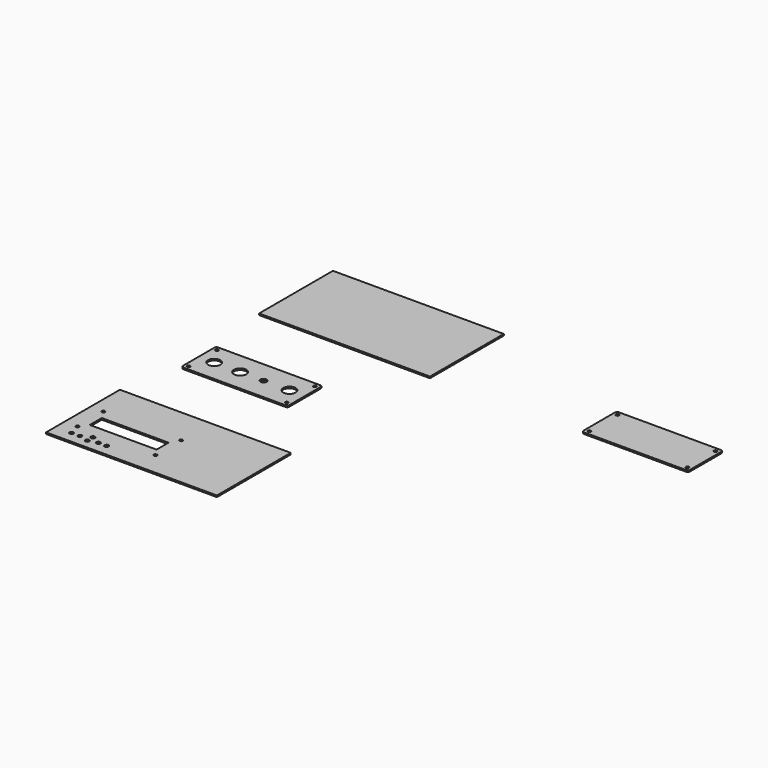
from build123d import *

# Parameters (mm, degrees)
F0_R     = 1.5
F0_R_2   = 6
F0_R_3   = 3
F0_W     = 165
F0_H     = 89.1
F0_R_4   = 1.9
F0_R_5   = 1.55
F0_W_2   = 64.5
F0_H_2   = 14.5
F1_DEPTH = 1.5


with BuildPart() as f1:
    # F0 (on Top) → F1 (new body)
    with BuildSketch(Plane.XY):
        with BuildLine():
            Line((42.381407, 155.421366), (-56.318593, 155.421366))
            ThreePointArc((-56.318593, 155.421366), (-57.732806, 154.835579), (-58.318593, 153.421366))
            Line((-58.318593, 153.421366), (-58.318593, 115.421366))
            ThreePointArc((-58.318593, 115.421366), (-57.732806, 114.007152), (-56.318593, 113.421366))
            Line((-56.318593, 113.421366), (42.381407, 113.421366))
            ThreePointArc((42.381407, 113.421366), (43.795621, 114.007152), (44.381407, 115.421366))
            Line((44.381407, 115.421366), (44.381407, 153.421366))
            ThreePointArc((44.381407, 153.421366), (43.795621, 154.835579), (42.381407, 155.421366))
        make_face()
        with Locations((-54.318593, 117.421366)):
            Circle(F0_R, mode=Mode.SUBTRACT)
        with Locations((-43.318593, 134.421366)):
            Circle(F0_R_2, mode=Mode.SUBTRACT)
        with Locations((-18.318593, 134.421366)):
            Circle(F0_R_2, mode=Mode.SUBTRACT)
        with Locations((4.381407, 134.421366)):
            Circle(F0_R_3, mode=Mode.SUBTRACT)
        with Locations((29.381407, 134.421366)):
            Circle(F0_R_2, mode=Mode.SUBTRACT)
        with Locations((40.381407, 117.421366)):
            Circle(F0_R, mode=Mode.SUBTRACT)
        with Locations((-54.318593, 151.421366)):
            Circle(F0_R, mode=Mode.SUBTRACT)
        with Locations((40.381407, 151.421366)):
            Circle(F0_R, mode=Mode.SUBTRACT)
        with Locations((11.481407, 10.66042)):
            Rectangle(F0_W, F0_H)
        with Locations((-55.368593, -22.63958)):
            Circle(F0_R_4, mode=Mode.SUBTRACT)
        with Locations((-47.468593, -22.63958)):
            Circle(F0_R_4, mode=Mode.SUBTRACT)
        with Locations((-38.318593, -25.03958)):
            Circle(F0_R_4, mode=Mode.SUBTRACT)
        with Locations((-38.318593, -18.23958)):
            Circle(F0_R_4, mode=Mode.SUBTRACT)
        with Locations((-29.468593, -22.63958)):
            Circle(F0_R_4, mode=Mode.SUBTRACT)
        with Locations((-21.568593, -22.63958)):
            Circle(F0_R_4, mode=Mode.SUBTRACT)
        with Locations((-58.468593, -11.48958)):
            Circle(F0_R_5, mode=Mode.SUBTRACT)
        with Locations((-20.568593, 3.36042)):
            Rectangle(F0_W_2, F0_H_2, mode=Mode.SUBTRACT)
        with Locations((16.631407, -11.48958)):
            Circle(F0_R_5, mode=Mode.SUBTRACT)
        with Locations((-58.468593, 19.51042)):
            Circle(F0_R_5, mode=Mode.SUBTRACT)
        with Locations((16.631407, 19.51042)):
            Circle(F0_R_5, mode=Mode.SUBTRACT)
        with Locations((15.627694, 262.666328)):
            Rectangle(F0_W, F0_H)
        with BuildLine():
            Line((344.412176, 261.530314), (245.712176, 261.530314))
            ThreePointArc((245.712176, 261.530314), (244.297962, 260.944528), (243.712176, 259.530314))
            Line((243.712176, 259.530314), (243.712176, 221.530314))
            ThreePointArc((243.712176, 221.530314), (244.297962, 220.116101), (245.712176, 219.530314))
            Line((245.712176, 219.530314), (344.412176, 219.530314))
            ThreePointArc((344.412176, 219.530314), (345.82639, 220.116101), (346.412176, 221.530314))
            Line((346.412176, 221.530314), (346.412176, 259.530314))
            ThreePointArc((346.412176, 259.530314), (345.82639, 260.944528), (344.412176, 261.530314))
        make_face()
        with Locations((247.712176, 223.530314)):
            Circle(F0_R, mode=Mode.SUBTRACT)
        with Locations((247.712176, 257.530314)):
            Circle(F0_R, mode=Mode.SUBTRACT)
        with Locations((342.412176, 223.530314)):
            Circle(F0_R, mode=Mode.SUBTRACT)
        with Locations((342.412176, 257.530314)):
            Circle(F0_R, mode=Mode.SUBTRACT)
    extrude(amount=F1_DEPTH)


solid = f1.part
